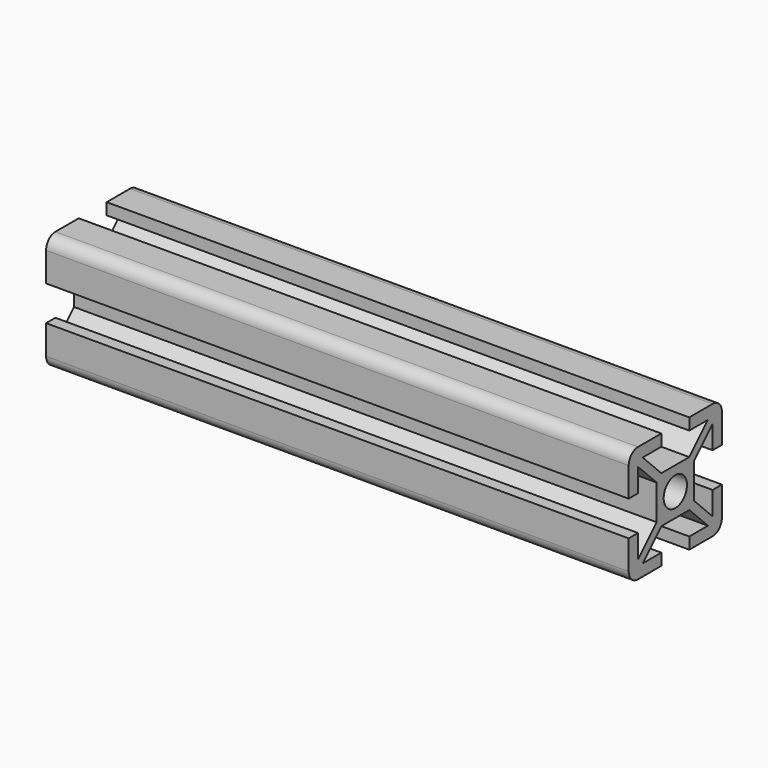
from build123d import *

# Parameters (mm, degrees)
SKETCH_R  = 2.5
PAD_DEPTH = 100


with BuildPart() as part:
    # Sketch → Pad (new body)
    with BuildSketch(Plane.YZ):
        with BuildLine():
            ThreePointArc((-8, 10), (-9.414214, 9.414214), (-10, 8))
            Line((-10, 8), (-10, 3))
            Line((-8, 3), (-10, 3))
            Line((-8, 3), (-8, 7))
            Line((-4, 3), (-8, 7))
            Line((-4, -3), (-4, 3))
            Line((-8, -7), (-4, -3))
            Line((-8, -7), (-8, -3))
            Line((-10, -3), (-8, -3))
            Line((-10, -3), (-10, -8))
            ThreePointArc((-10, -8), (-9.414214, -9.414214), (-8, -10))
            Line((-8, -10), (-3, -10))
            Line((-3, -10), (-3, -8))
            Line((-3, -8), (-7, -8))
            Line((-3, -4), (-7, -8))
            Line((3, -4), (-3, -4))
            Line((3, -4), (7, -8))
            Line((3, -8), (7, -8))
            Line((3, -10), (3, -8))
            Line((3, -10), (8, -10))
            ThreePointArc((8, -10), (9.414214, -9.414214), (10, -8))
            Line((10, -8), (10, -3))
            Line((10, -3), (8, -3))
            Line((8, -7), (8, -3))
            Line((4, -3), (8, -7))
            Line((4, 3), (4, -3))
            Line((4, 3), (8, 7))
            Line((8, 7), (8, 3))
            Line((8, 3), (10, 3))
            Line((10, 3), (10, 8))
            ThreePointArc((10, 8), (9.414214, 9.414214), (8, 10))
            Line((3, 10), (8, 10))
            Line((3, 10), (3, 8))
            Line((3, 8), (7, 8))
            Line((7, 8), (3, 4))
            Line((-3, 4), (3, 4))
            Line((-3, 4), (-7, 8))
            Line((-7, 8), (-3, 8))
            Line((-3, 8), (-3, 10))
            Line((-8, 10), (-3, 10))
        make_face()
        Circle(SKETCH_R, mode=Mode.SUBTRACT)
    extrude(amount=PAD_DEPTH)


solid = part.part
